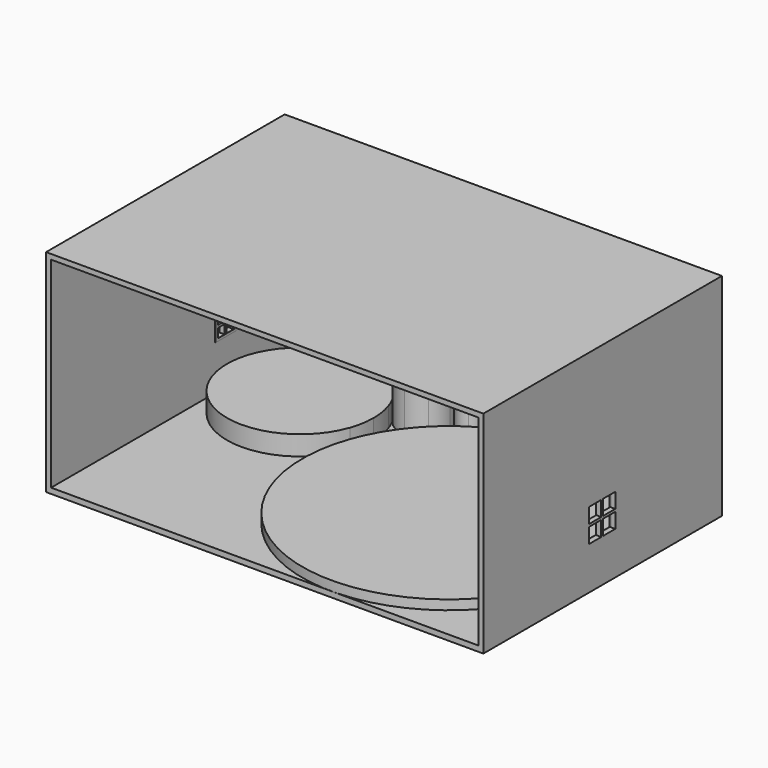
from build123d import *

# Parameters (mm, degrees)
F2_DEPTH      = 101.6
F2_DEPTH_BACK = 2.54
F1_W          = 215.7130734528
F1_H          = 148.0420489686
F3_DEPTH      = 2.54
F4_DEPTH      = 5.08
F5_DEPTH      = 10.16
F6_DEPTH      = 15.24
F7_DEPTH      = 20.32
F8_DEPTH      = 25.4
F9_DEPTH      = 30.48
F10_START     = 101.6
F10_DEPTH     = 2.54
F11_W         = 5.3975
F11_H         = 5.3975
F11_W_2       = 7.62
F11_H_2       = 7.62
F12_DEPTH     = 25.4
F13_DEPTH     = 0.254
F11_W_3       = 12.7
F11_H_3       = 12.7
F11_W_4       = 19.05
F11_H_4       = 19.05
F14_DEPTH     = 0.254
F15_W         = 4.445
F15_H         = 4.4449982455
F15_W_2       = 4.4449982455
F15_H_2       = 4.445
F16_W         = 7.62
F16_H         = 7.62
F17_DEPTH     = 12.7
F15_W_3       = 12.7
F15_H_3       = 12.7
F16_W_2       = 19.05
F16_H_2       = 19.05
F18_DEPTH     = 0.254


with BuildPart() as f2:
    # F1 (on Top) → F2 (new body, two sides)
    with BuildSketch(Plane.XY) as f2_sk:
        Polygon((-80.3710244843, -135.3420489686), (-80.3710244843, 12.7), (135.3420489686, 12.7), (135.3420489686, -135.3420489686), (137.8820489686, -135.3420489686), (137.8820489686, 15.24), (-82.9110244843, 15.24), (-82.9110244843, -135.3420489686), align=None)
    extrude(amount=F2_DEPTH)
    extrude(f2_sk.sketch, amount=-F2_DEPTH_BACK)

    # F1 (on Top) → F3 (join)
    with BuildSketch(Plane.XY):
        with Locations((27.4855122421, -61.3210244843)):
            Rectangle(F1_W, F1_H)
    extrude(amount=-F3_DEPTH)

    # F1 (on Top) → F10 (join)
    with BuildSketch(Plane.XY.offset(F10_START)):
        Polygon((-80.3710244843, -135.3420489686), (-80.3710244843, 12.7), (135.3420489686, 12.7), (135.3420489686, -135.3420489686), (137.8820489686, -135.3420489686), (137.8820489686, 15.24), (-82.9110244843, 15.24), (-82.9110244843, -135.3420489686), align=None)
        with Locations((27.4855122421, -61.3210244843)):
            Rectangle(F1_W, F1_H)
    extrude(amount=F10_DEPTH)

    # F11 (on face) → F12 (cut)
    with BuildSketch(Plane.XZ.offset(-12.7)):
        with Locations((-47.8272744843, 32.22625)):
            Rectangle(F11_W, F11_H)
        with Locations((-41.7947744843, 32.22625)):
            Rectangle(F11_W, F11_H)
        with Locations((-41.7947744843, 26.19375)):
            Rectangle(F11_W, F11_H)
        with Locations((-47.8272744843, 26.19375)):
            Rectangle(F11_W, F11_H)
        with Locations((56.6020489686, 31.75)):
            Rectangle(F11_W_2, F11_H_2)
        with Locations((56.6020489686, 22.86)):
            Rectangle(F11_W_2, F11_H_2)
        with Locations((65.4920489686, 22.86)):
            Rectangle(F11_W_2, F11_H_2)
        with Locations((65.4920489686, 31.75)):
            Rectangle(F11_W_2, F11_H_2)
    extrude(amount=-F12_DEPTH, mode=Mode.SUBTRACT)


with BuildPart() as f4:
    # F0 (on Top) → F4 (new body)
    with BuildSketch(Plane.XY):
        with BuildLine():
            ThreePointArc((21.3863638624, 1.0034084992), (16.9236536947, -2.0927750363), (12.7, -5.5078715201))
            Line((12.7, -5.5078715201), (12.7, -12.7))
            Line((12.7, -12.7), (5.5078715201, -12.7))
            ThreePointArc((5.5078715201, -12.7), (-2.6106727821, -24.0135165221), (-8.4666668307, -36.6473501202))
            ThreePointArc((-8.4666668307, -36.6473501202), (48.8039230192, -134.2760396417), (135.3420489686, -61.3210244843))
            ThreePointArc((135.3420489686, -61.3210244843), (113.6617928475, -8.9802561211), (61.3210244843, 12.7))
            ThreePointArc((61.3210244843, 12.7), (40.5148512914, 9.7156929425), (21.3863638624, 1.0034084992))
        make_face()
        with BuildLine():
            ThreePointArc((12.7, -5.5078715201), (10.8102803494, -7.212089985), (8.9802560136, -8.9802562285))
            ThreePointArc((8.9802560136, -8.9802562285), (7.2120898814, -10.8102804605), (5.5078715201, -12.7))
            Line((5.5078715201, -12.7), (12.7, -12.7))
            Line((12.7, -12.7), (12.7, -5.5078715201))
        make_face()
    extrude(amount=F4_DEPTH)


with BuildPart() as f5:
    # F0 (on Top) → F5 (new body)
    with BuildSketch(Plane.XY):
        with BuildLine():
            ThreePointArc((-6.35, -24.3105122421), (-6.8200638665, -18.4305761087), (-8.2183150726, -12.7))
            Line((-8.2183150726, -12.7), (-12.7, -12.7))
            Line((-12.7, -12.7), (-12.7, -3.5810403368))
            ThreePointArc((-12.7, -3.5810403368), (-15.7516077126, 0.3375385348), (-19.3004088223, 3.8122443769))
            ThreePointArc((-19.3004088223, 3.8122443769), (-79.1115502329, -33.8834584453), (-8.4666668307, -36.6473501202))
            ThreePointArc((-8.4666668307, -36.6473501202), (-6.8830047259, -30.5690633385), (-6.35, -24.3105122421))
        make_face()
        with BuildLine():
            ThreePointArc((-8.2183150726, -12.7), (-9.4922370648, -9.3867743411), (-11.0777072264, -6.210829462))
            ThreePointArc((-11.0777072264, -6.210829462), (-11.8613972615, -4.878997328), (-12.7, -3.5810403368))
            Line((-12.7, -3.5810403368), (-12.7, -12.7))
            Line((-12.7, -12.7), (-8.2183150726, -12.7))
        make_face()
    extrude(amount=F5_DEPTH)


with BuildPart() as f6:
    # F0 (on Top) → F6 (new body)
    with BuildSketch(Plane.XY):
        with BuildLine():
            ThreePointArc((-12.7, 3.8417432937), (-11.9964233816, 4.5939464259), (-11.4600853813, 5.4732479438))
            ThreePointArc((-11.4600853813, 5.4732479438), (-11.0918303484, 6.5339152051), (-10.9670224069, 7.6497331948))
            ThreePointArc((-10.9670224069, 7.6497331948), (-11.4206387797, 9.7416221991), (-12.7, 11.457723096))
            Line((-12.7, 11.457723096), (-12.7, 3.8417432937))
        make_face()
        with BuildLine():
            ThreePointArc((-16.017289212, 12.7), (-20.7546691417, 9.3997121105), (-19.3004088223, 3.8122443769))
            ThreePointArc((-19.3004088223, 3.8122443769), (-15.9947185021, 2.5995168266), (-12.7, 3.8417432937))
            Line((-12.7, 3.8417432937), (-12.7, 11.457723096))
            ThreePointArc((-12.7, 11.457723096), (-14.246155421, 12.3792447867), (-16.017289212, 12.7))
        make_face()
    extrude(amount=F6_DEPTH)


with BuildPart() as f7:
    # F0 (on Top) → F7 (new body)
    with BuildSketch(Plane.XY):
        with BuildLine():
            ThreePointArc((8.9802560136, -8.9802562285), (11.7332700338, -4.8600796612), (12.7, 0))
            ThreePointArc((12.7, 0), (12.5171017447, 2.1475949134), (11.9736749745, 4.2333329194))
            ThreePointArc((11.9736749745, 4.2333329194), (10.7424451155, 6.7742064436), (8.9802561211, 8.9802561211))
            ThreePointArc((8.9802561211, 8.9802561211), (4.8600795841, 11.7332700658), (-1.5e-08, 12.7))
            ThreePointArc((-1.5e-08, 12.7), (-6.7742066431, 10.7424449897), (-11.4600853813, 5.4732479438))
            ThreePointArc((-11.4600853813, 5.4732479438), (-12.3861431516, 2.8059682516), (-12.7, 0))
            ThreePointArc((-12.7, 0), (-12.2877353848, -3.2096041987), (-11.0777072264, -6.210829462))
            ThreePointArc((-11.0777072264, -6.210829462), (-6.4192081222, -10.9582739099), (0, -12.7))
            ThreePointArc((0, -12.7), (4.8600795209, -11.733270092), (8.9802560136, -8.9802562285))
        make_face()
    extrude(amount=F7_DEPTH)


with BuildPart() as f8:
    # F0 (on Top) → F8 (new body)
    with BuildSketch(Plane.XY):
        with BuildLine():
            Line((12.7, 9.9066150973), (12.7, 2.7933849027))
            ThreePointArc((12.7, 2.7933849027), (16.6789121561, 0.1306751798), (21.3863638624, 1.0034084992))
            ThreePointArc((21.3863638624, 1.0034084992), (23.531717578, 3.3030062183), (24.3105122421, 6.35))
            ThreePointArc((24.3105122421, 6.35), (22.4506403099, 10.8401280533), (17.9605122627, 12.7))
            ThreePointArc((17.9605122627, 12.7), (14.9824261097, 11.9583422674), (12.7, 9.9066150973))
        make_face()
        with BuildLine():
            ThreePointArc((12.421658058, 9.4554137126), (11.6337498147, 6.8927496535), (11.9736749745, 4.2333329194))
            ThreePointArc((11.9736749745, 4.2333329194), (12.2909372738, 3.4902063574), (12.7, 2.7933849027))
            Line((12.7, 2.7933849027), (12.7, 9.9066150973))
            ThreePointArc((12.7, 9.9066150973), (12.5561182451, 9.6839204437), (12.421658058, 9.4554137126))
        make_face()
    extrude(amount=F8_DEPTH)


with BuildPart() as f9:
    # F0 (on Top) → F9 (new body)
    with BuildSketch(Plane.XY):
        with BuildLine():
            ThreePointArc((10.5210244852, 12.7), (8.5079136036, 11.3548823141), (8.9802561211, 8.9802561211))
            ThreePointArc((8.9802561211, 8.9802561211), (10.8190503668, 8.3625261935), (12.421658058, 9.4554137126))
            ThreePointArc((12.421658058, 9.4554137126), (12.6292664438, 9.9703429626), (12.7, 10.5210244843))
            ThreePointArc((12.7, 10.5210244843), (12.0617928478, 12.0617928472), (10.5210244852, 12.7))
        make_face()
    extrude(amount=F9_DEPTH)


with BuildPart() as f13:
    # F11 (on face) → F13 (new body)
    with BuildSketch(Plane.XZ.offset(-12.7)):
        with BuildLine():
            Line((-80.3710244843, 101.6), (-80.3710244843, 76.2))
            ThreePointArc((-80.3710244843, 76.2), (-62.4105122421, 83.6394877579), (-54.9710244843, 101.6))
            Line((-54.9710244843, 101.6), (-80.3710244843, 101.6))
        make_face()
    extrude(amount=F13_DEPTH)


with BuildPart() as f13b:
    # F11 (on face) → F13, piece 2 (new body)
    with BuildSketch(Plane.XZ.offset(-12.7)):
        with BuildLine():
            Line((135.3420489686, 101.6), (109.9420489686, 101.6))
            ThreePointArc((109.9420489686, 101.6), (117.3815367264, 83.6394877579), (135.3420489686, 76.2))
            Line((135.3420489686, 76.2), (135.3420489686, 101.6))
        make_face()
    extrude(amount=F13_DEPTH)


with BuildPart() as f13c:
    # F11 (on face) → F13, piece 3 (new body)
    with BuildSketch(Plane.XZ.offset(-12.7)):
        with Locations((-44.8110244843, 29.21)):
            Rectangle(F11_W_3, F11_H_3)
        Polygon((-50.5260244843, 29.5275), (-50.5260244843, 34.925), (-45.1285244843, 34.925), (-44.4935244843, 34.925), (-39.0960244843, 34.925), (-39.0960244843, 29.5275), (-39.0960244843, 28.8925), (-39.0960244843, 23.495), (-44.4935244843, 23.495), (-45.1285244843, 23.495), (-50.5260244843, 23.495), (-50.5260244843, 28.8925), align=None, mode=Mode.SUBTRACT)
    extrude(amount=F13_DEPTH)


with BuildPart() as f13d:
    # F11 (on face) → F13, piece 4 (new body)
    with BuildSketch(Plane.XZ.offset(-12.7)):
        with Locations((61.0470489686, 27.305)):
            Rectangle(F11_W_4, F11_H_4)
        Polygon((52.7920489686, 27.94), (52.7920489686, 35.56), (60.4120489686, 35.56), (61.6820489686, 35.56), (69.3020489686, 35.56), (69.3020489686, 27.94), (69.3020489686, 26.67), (69.3020489686, 19.05), (61.6820489686, 19.05), (60.4120489686, 19.05), (52.7920489686, 19.05), (52.7920489686, 26.67), align=None, mode=Mode.SUBTRACT)
    extrude(amount=F13_DEPTH)


with BuildPart() as f14:
    # F14 (new): a face of the model
    f14_faces = [f2.part.faces().sort_by_distance(p)[0] for p in [
        (27.4855122421, -61.3210244843, 0),
    ]]
    extrude(f14_faces, amount=F14_DEPTH)


with BuildPart() as f2_1:
    add(f2.part)

    # F15 (on face) + F16 (on face) → F17 (cut, symmetric)
    with BuildSketch(Plane.YZ.offset(-80.3710244843)):
        with Locations((-28.2575, 31.9405008772)):
            Rectangle(F15_W, F15_H)
        with Locations((-22.5425008772, 31.9405008772)):
            Rectangle(F15_W_2, F15_H)
        with Locations((-22.5425008772, 26.2255017545)):
            Rectangle(F15_W_2, F15_H_2)
        with Locations((-28.2575, 26.2255017545)):
            Rectangle(F15_W, F15_H_2)
    with BuildSketch(Plane(origin=(135.3420489686, 0, 0), x_dir=(0, -1, 0), z_dir=(-1, 0, 0))):
        with Locations((55.88, 31.75)):
            Rectangle(F16_W, F16_H)
        with Locations((64.77, 31.75)):
            Rectangle(F16_W, F16_H)
        with Locations((64.77, 22.86)):
            Rectangle(F16_W, F16_H)
        with Locations((55.88, 22.86)):
            Rectangle(F16_W, F16_H)
    extrude(amount=F17_DEPTH, both=True, dir=(1, 0, 0), mode=Mode.SUBTRACT)


with BuildPart() as f18:
    # F15 (on face) + F16 (on face) → F18 (new body, symmetric)
    with BuildSketch(Plane.YZ.offset(-80.3710244843)):
        with Locations((-25.4, 29.083)):
            Rectangle(F15_W_3, F15_H_3)
        Polygon((-26.035, 24.0030017545), (-30.48, 24.0030017545), (-30.48, 28.4480017545), (-30.48, 29.7180017545), (-30.48, 34.163), (-26.035, 34.163), (-24.765, 34.163), (-20.3200017545, 34.163), (-20.3200017545, 29.7180017545), (-20.3200017545, 28.4480017545), (-20.3200017545, 24.0030017545), (-24.765, 24.0030017545), align=None, mode=Mode.SUBTRACT)
    with BuildSketch(Plane(origin=(135.3420489686, 0, 0), x_dir=(0, -1, 0), z_dir=(-1, 0, 0))):
        with Locations((60.325, 27.305)):
            Rectangle(F16_W_2, F16_H_2)
        Polygon((52.07, 27.94), (52.07, 35.56), (59.69, 35.56), (60.96, 35.56), (68.58, 35.56), (68.58, 27.94), (68.58, 26.67), (68.58, 19.05), (60.96, 19.05), (59.69, 19.05), (52.07, 19.05), (52.07, 26.67), align=None, mode=Mode.SUBTRACT)
    extrude(amount=F18_DEPTH, both=True, dir=(1, 0, 0))


solid = Compound([f4.part, f5.part, f6.part, f7.part, f8.part, f9.part, f13.part, f13b.part, f13c.part, f13d.part, f14.part, f2_1.part, f18.part])
